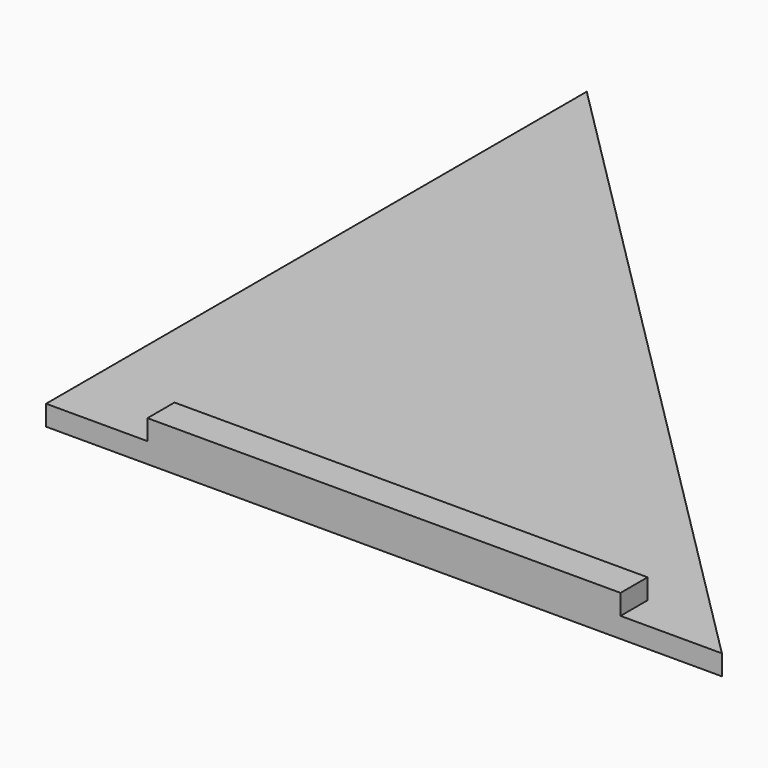
from build123d import *

# Parameters (mm, degrees)
F1_DEPTH = 3
F2_W     = 70
F2_H     = 5
F3_DEPTH = 3


with BuildPart() as f1:
    # F0 (on Top) → F1 (new body)
    with BuildSketch(Plane.XY):
        Polygon((0, 100), (0, 0), (100, 0), align=None)
    extrude(amount=F1_DEPTH)

    # F2 (on face) → F3 (join)
    with BuildSketch(Plane.XY.offset(3)):
        with Locations((50, 2.5)):
            Rectangle(F2_W, F2_H)
    extrude(amount=F3_DEPTH)


solid = f1.part
